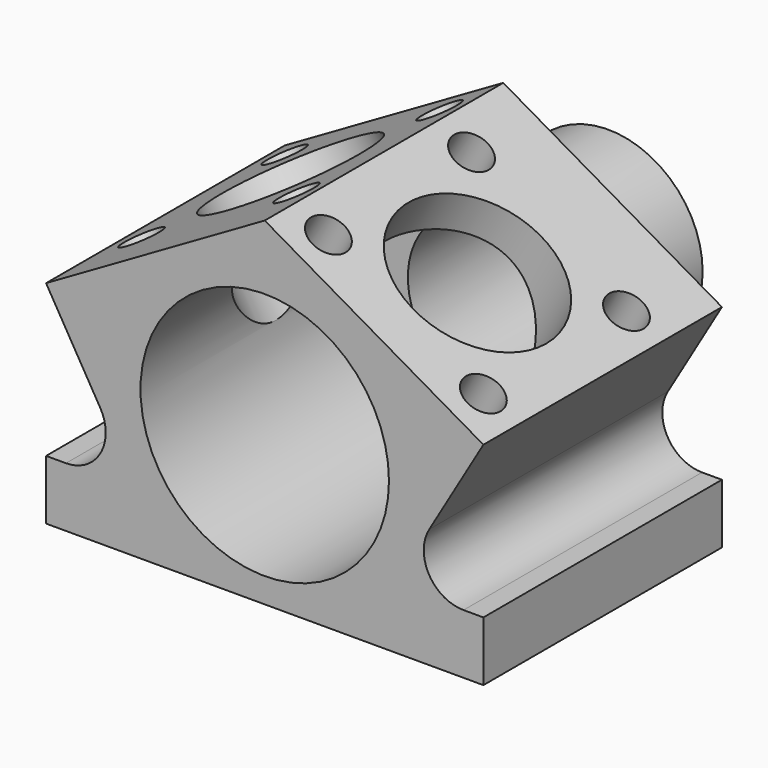
from build123d import *

# Parameters (mm, degrees)
F0_R      = 6.25
F1_DEPTH  = 13
F0_R_2    = 4.75
F0_R_3    = 4
F2_DEPTH  = 2
F3_DEPTH  = 8.6
F4_R      = 1
F5_R      = 4
F7_DEPTH  = 6.4553484435
F5_R_2    = 1
F8_DEPTH  = 2
F6_R      = 4
F9_DEPTH  = 6.4553484442
F6_R_2    = 1
F10_DEPTH = 2
F11_DEPTH = 1
F12_R     = 1
F13_DEPTH = 2


with BuildPart() as f1:
    # F0 (on Front) → F1 (new body)
    with BuildSketch(Plane.XZ):
        with BuildLine():
            Line((-11, -4.5), (-11, -7.5))
            Line((-11, -7.5), (11, -7.5))
            Line((11, -7.5), (11, -4.5))
            Line((11, -4.5), (10, -4.5))
            ThreePointArc((10, -4.5), (8.2641129984, -3.493325887), (8.2756985044, -1.4866963178))
            Line((8.2756985044, -1.4866963178), (11, 3.1491470389))
            Line((11, 3.1491470389), (0, 9.5))
            Line((0, 9.5), (-11, 3.1491470389))
            Line((-11, 3.1491470389), (-8.2756985044, -1.4866963178))
            ThreePointArc((-8.2756985044, -1.4866963178), (-8.2641129984, -3.493325887), (-10, -4.5))
            Line((-10, -4.5), (-11, -4.5))
        make_face()
        Circle(F0_R, mode=Mode.SUBTRACT)
    extrude(amount=F1_DEPTH)

    # F0 (on Front) → F2 (join)
    with BuildSketch(Plane.XZ):
        with BuildLine():
            Line((-11, -4.5), (-11, -7.5))
            Line((-11, -7.5), (11, -7.5))
            Line((11, -7.5), (11, -4.5))
            Line((11, -4.5), (10, -4.5))
            ThreePointArc((10, -4.5), (8.2641129984, -3.493325887), (8.2756985044, -1.4866963178))
            Line((8.2756985044, -1.4866963178), (11, 3.1491470389))
            Line((11, 3.1491470389), (0, 9.5))
            Line((0, 9.5), (-11, 3.1491470389))
            Line((-11, 3.1491470389), (-8.2756985044, -1.4866963178))
            ThreePointArc((-8.2756985044, -1.4866963178), (-8.2641129984, -3.493325887), (-10, -4.5))
            Line((-10, -4.5), (-11, -4.5))
        make_face()
        Circle(F0_R, mode=Mode.SUBTRACT)
        Circle(F0_R)
        Circle(F0_R_2, mode=Mode.SUBTRACT)
        Circle(F0_R_2)
        Circle(F0_R_3, mode=Mode.SUBTRACT)
    extrude(amount=-F2_DEPTH)

    # F0 (on Front) → F3 (join)
    with BuildSketch(Plane.XZ):
        Circle(F0_R_2)
        Circle(F0_R_3, mode=Mode.SUBTRACT)
    extrude(amount=-F3_DEPTH)

    # F4
    f4_edges = [f1.edges().sort_by_distance(p)[0] for p in [
        (-4.75, 2, 0),
    ]]
    fillet(f4_edges, radius=F4_R)

    # F5 (on face) → F7 (cut, up to face)
    with BuildSketch(Plane(origin=(4.113620668, 0, 7.125), x_dir=(0.8660254038, 0, -0.5), z_dir=(0.5, 0, 0.8660254038))):
        with Locations((1.6017059222, -6.5)):
            Circle(F5_R)
    extrude(amount=-F7_DEPTH, mode=Mode.SUBTRACT)

    # F5 (on face) → F8 (cut)
    with BuildSketch(Plane(origin=(4.113620668, 0, 7.125), x_dir=(0.8660254038, 0, -0.5), z_dir=(0.5, 0, 0.8660254038))):
        with Locations((-2.8982940778, -2)):
            Circle(F5_R_2)
        with Locations((6.1017059222, -2)):
            Circle(F5_R_2)
        with Locations((6.1017059222, -11)):
            Circle(F5_R_2)
        with Locations((-2.8982940778, -11)):
            Circle(F5_R_2)
    extrude(amount=-F8_DEPTH, mode=Mode.SUBTRACT)

    # F6 (on face) → F9 (cut, up to face)
    with BuildSketch(Plane(origin=(-4.113620668, 0, 7.125), x_dir=(0.8660254038, 0, 0.5), z_dir=(-0.5, 0, 0.8660254038))):
        with Locations((-1.6017059222, -4.5)):
            Circle(F6_R)
    extrude(amount=-F9_DEPTH, mode=Mode.SUBTRACT)

    # F6 (on face) → F10 (cut)
    with BuildSketch(Plane(origin=(-4.113620668, 0, 7.125), x_dir=(0.8660254038, 0, 0.5), z_dir=(-0.5, 0, 0.8660254038))):
        with Locations((-6.1017059222, -9)):
            Circle(F6_R_2)
        with Locations((-6.1017059222, 0)):
            Circle(F6_R_2)
        with Locations((2.8982940778, 0)):
            Circle(F6_R_2)
        with Locations((2.8982940778, -9)):
            Circle(F6_R_2)
    extrude(amount=-F10_DEPTH, mode=Mode.SUBTRACT)

    # F0 (on Front) → F11 (cut)
    with BuildSketch(Plane.XZ):
        Circle(F0_R)
        Circle(F0_R_2, mode=Mode.SUBTRACT)
        Circle(F0_R_2)
        Circle(F0_R_3, mode=Mode.SUBTRACT)
    extrude(amount=-F11_DEPTH, mode=Mode.SUBTRACT)

    # F12 (on face) → F13 (cut)
    with BuildSketch(Plane(origin=(0, 0, -7.5), x_dir=(1, 0, 0), z_dir=(0, 0, -1))):
        with Locations((-6, 5.5)):
            Circle(F12_R)
        with Locations((6, 5.5)):
            Circle(F12_R)
    extrude(amount=-F13_DEPTH, mode=Mode.SUBTRACT)


solid = f1.part
